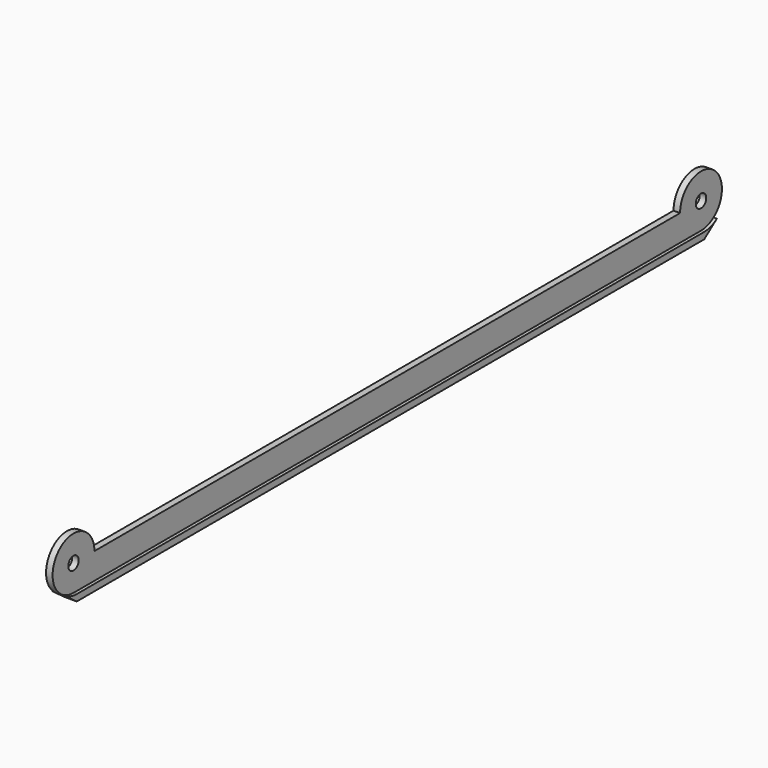
from build123d import *

# Parameters (mm, degrees)
F1_DEPTH = 2.5
F0_R     = 2.5
F2_DEPTH = 1.25


with BuildPart() as f1:
    # F0 (on Right) → F1 (new body, symmetric)
    with BuildSketch(Plane.YZ):
        with BuildLine():
            ThreePointArc((-150, 2.5), (-153.162278, 3.013167), (-156, 4.5))
            Line((-156, 4.5), (-150, 0))
            Line((-150, 0), (150, 0))
            Line((150, 0), (156, 4.5))
            ThreePointArc((156, 4.5), (153.162278, 3.013167), (150, 2.5))
            Line((150, 2.5), (-150, 2.5))
        make_face()
    extrude(amount=F1_DEPTH, both=True)

    # F0 (on Right) → F2 (join, symmetric)
    with BuildSketch(Plane.YZ):
        with BuildLine():
            Line((140, 12.5), (-140, 12.5))
            ThreePointArc((-140, 12.5), (-142.928932, 5.428932), (-150, 2.5))
            Line((-150, 2.5), (150, 2.5))
            ThreePointArc((150, 2.5), (142.928932, 5.428932), (140, 12.5))
        make_face()
        with BuildLine():
            ThreePointArc((-150, 2.5), (-142.928932, 5.428932), (-140, 12.5))
            ThreePointArc((-140, 12.5), (-154.472136, 21.444272), (-156, 4.5))
            ThreePointArc((-156, 4.5), (-153.162278, 3.013167), (-150, 2.5))
        make_face()
        with Locations((-150, 12.5)):
            Circle(F0_R, mode=Mode.SUBTRACT)
        with BuildLine():
            ThreePointArc((160, 12.5), (150, 22.5), (140, 12.5))
            ThreePointArc((140, 12.5), (142.928932, 5.428932), (150, 2.5))
            ThreePointArc((150, 2.5), (153.162278, 3.013167), (156, 4.5))
            ThreePointArc((156, 4.5), (158.944272, 8.027864), (160, 12.5))
        make_face()
        with Locations((150, 12.5)):
            Circle(F0_R, mode=Mode.SUBTRACT)
    extrude(amount=F2_DEPTH, both=True)


solid = f1.part
